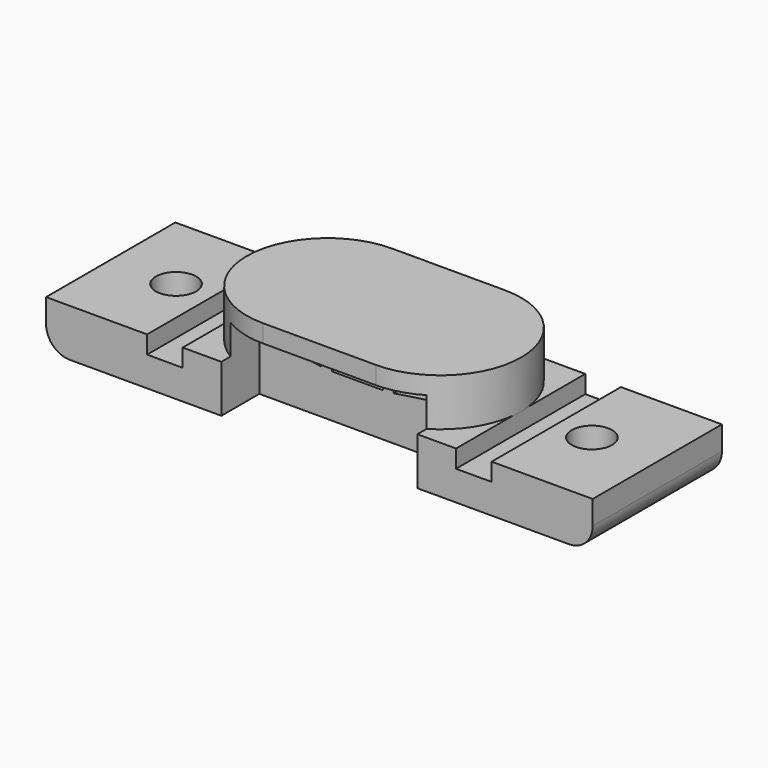
from build123d import *

# Parameters (mm, degrees)
SKETCH_W        = 46
SKETCH_H        = 13.6
SKETCH_R        = 1.7
PAD_DEPTH       = 4
PAD001_DEPTH    = 4
SKETCH002_W     = 4.3
SKETCH002_H     = 1.7
POCKET_DEPTH    = 10
SKETCH003_W     = 16.5
SKETCH003_H     = 7.2
POCKET001_DEPTH = 4
SKETCH004_W     = 3
SKETCH004_H     = 1.5
POCKET002_DEPTH = 110.862709
FILLET_R        = 2
FILLET001_R     = 2
CHAMFER_SIZE    = 1.5
CHAMFER001_SIZE = 1.5


with BuildPart() as part:
    # Sketch → Pad (new body)
    with BuildSketch(Plane.XY):
        Rectangle(SKETCH_W, SKETCH_H)
        with Locations((-17.5, 0)):
            Circle(SKETCH_R, mode=Mode.SUBTRACT)
        with Locations((17.5, 0)):
            Circle(SKETCH_R, mode=Mode.SUBTRACT)
    extrude(amount=-PAD_DEPTH)

    # Sketch001 → Pad001 (new body)
    with BuildSketch(Plane.XY):
        with BuildLine():
            ThreePointArc((-4.75, 6.8), (-11.55, 0), (-4.75, -6.8))
            Line((-4.75, -6.8), (4.75, -6.8))
            ThreePointArc((4.75, -6.8), (11.55, 0), (4.75, 6.8))
            Line((-4.75, 6.8), (4.75, 6.8))
        make_face()
    extrude(amount=PAD001_DEPTH)

    # Sketch002 → Pocket (cut)
    with BuildSketch(Plane.XZ.offset(6.8)):
        Polygon((-7.066496, 2.040643), (-2.814518, 1.399799), (-3.067875, -0.281215), (-7.319853, 0.359629), align=None)
        with Locations((0, 0.5)):
            Rectangle(SKETCH002_W, SKETCH002_H)
        Polygon((2.814518, 1.399799), (7.066496, 2.040644), (7.319853, 0.359629), (3.067875, -0.281216), align=None)
    extrude(amount=-POCKET_DEPTH, mode=Mode.SUBTRACT)

    # Sketch003 → Pocket001 (cut)
    with BuildSketch(Plane.XZ.offset(6.8)):
        with Locations((0, -1.1)):
            Rectangle(SKETCH003_W, SKETCH003_H)
    extrude(amount=-POCKET001_DEPTH, mode=Mode.SUBTRACT)

    # Sketch004 → Pocket002 (cut, through all)
    with BuildSketch(Plane.XZ.offset(6.8)):
        with Locations((-13, -0.75)):
            Rectangle(SKETCH004_W, SKETCH004_H)
    pocket002 = extrude(amount=-POCKET002_DEPTH, mode=Mode.SUBTRACT)

    # Mirrored: Pocket002 across Sketch004 V_Axis
    add(pocket002.mirror(Plane(origin=(0, -6.8, 0), x_dir=(0, -1, 0), z_dir=(1, 0, 0))), mode=Mode.SUBTRACT)

    # Fillet
    fillet_edges = [part.edges().sort_by_distance(p)[0] for p in [
        (-23, 0, -4),
    ]]
    fillet(fillet_edges, radius=FILLET_R)

    # Fillet001
    fillet001_edges = [part.edges().sort_by_distance(p)[0] for p in [
        (23, 0, -4),
    ]]
    fillet(fillet001_edges, radius=FILLET001_R)

    # Chamfer
    chamfer_edges = [part.edges().sort_by_distance(p)[0] for p in [
        (-19.2, 0, -4),
    ]]
    chamfer(chamfer_edges, length=CHAMFER_SIZE)

    # Chamfer001
    chamfer001_edges = [part.edges().sort_by_distance(p)[0] for p in [
        (15.8, 0, -4),
    ]]
    chamfer(chamfer001_edges, length=CHAMFER001_SIZE)


solid = part.part
